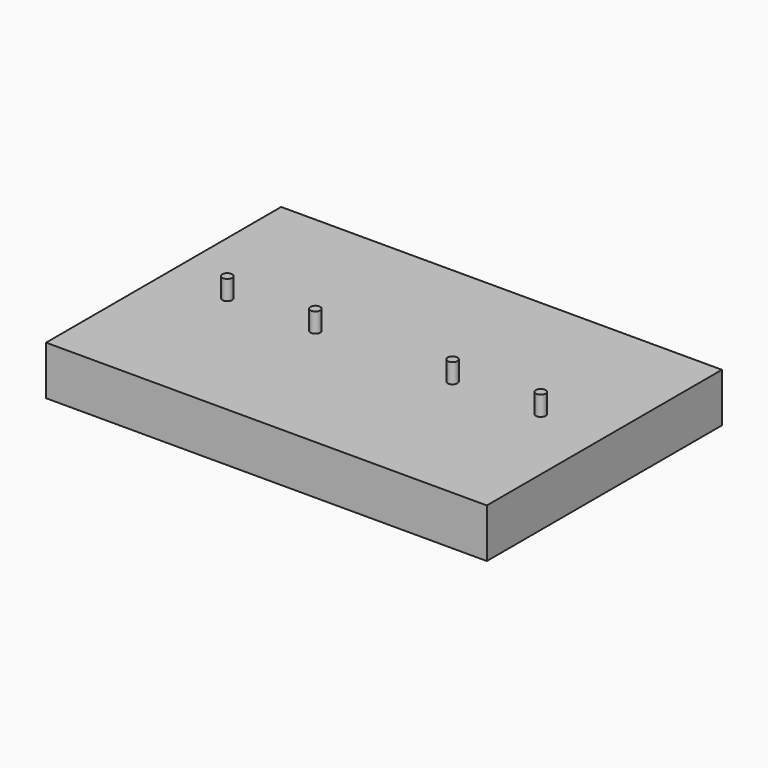
from build123d import *

# Parameters (mm, degrees)
F0_W     = 90
F0_H     = 60
F1_DEPTH = 10
F2_R     = 1
F3_DEPTH = 4


with BuildPart() as f1:
    # F0 (on Top) → F1 (new body)
    with BuildSketch(Plane.XY):
        Rectangle(F0_W, F0_H)
    extrude(amount=F1_DEPTH)

    # F2 (on face) → F3 (join)
    with BuildSketch(Plane.XY.offset(10)):
        with Locations((-14, 0)):
            Circle(F2_R)
        with Locations((14, 0)):
            Circle(F2_R)
        with Locations((-32, 0)):
            Circle(F2_R)
        with Locations((32, 0)):
            Circle(F2_R)
    extrude(amount=F3_DEPTH)


solid = f1.part
